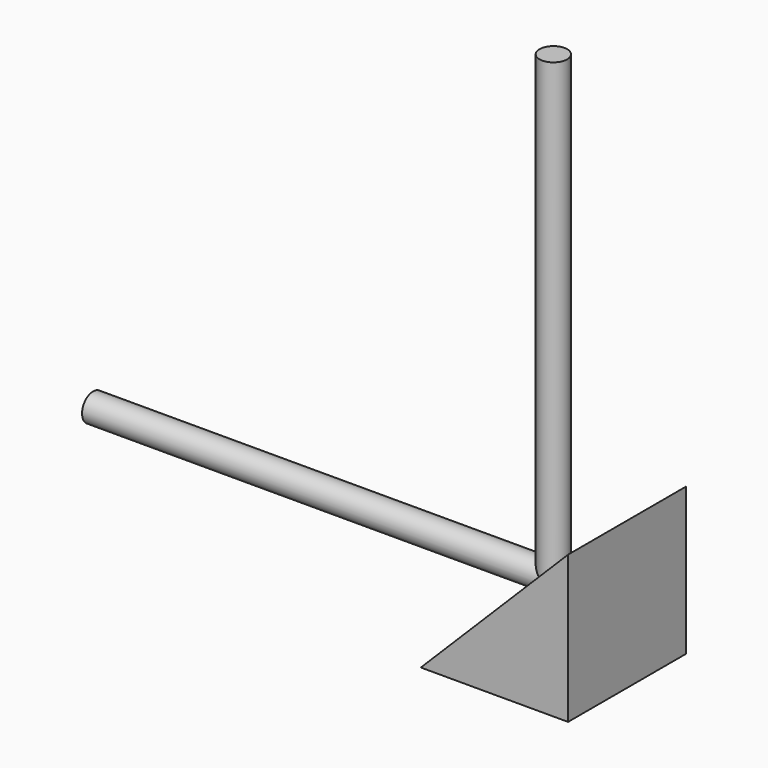
from build123d import *

# Parameters (mm, degrees)
F1_DEPTH = 4
F2_R     = 0.75
F3_DEPTH = 25
F4_R     = 0.75
F5_DEPTH = 25


with BuildPart() as f1:
    # F0 (on Front) → F1 (new body, symmetric)
    with BuildSketch(Plane.XZ):
        Polygon((4, -4), (4, 4), (-4, -4), align=None)
    extrude(amount=F1_DEPTH, both=True)

    # F2 (on Top) → F3 (join)
    with BuildSketch(Plane.XY):
        Circle(F2_R)
    extrude(amount=F3_DEPTH)

    # F4 (on Right) → F5 (join)
    with BuildSketch(Plane.YZ):
        Circle(F4_R)
    extrude(amount=-F5_DEPTH)


solid = f1.part
